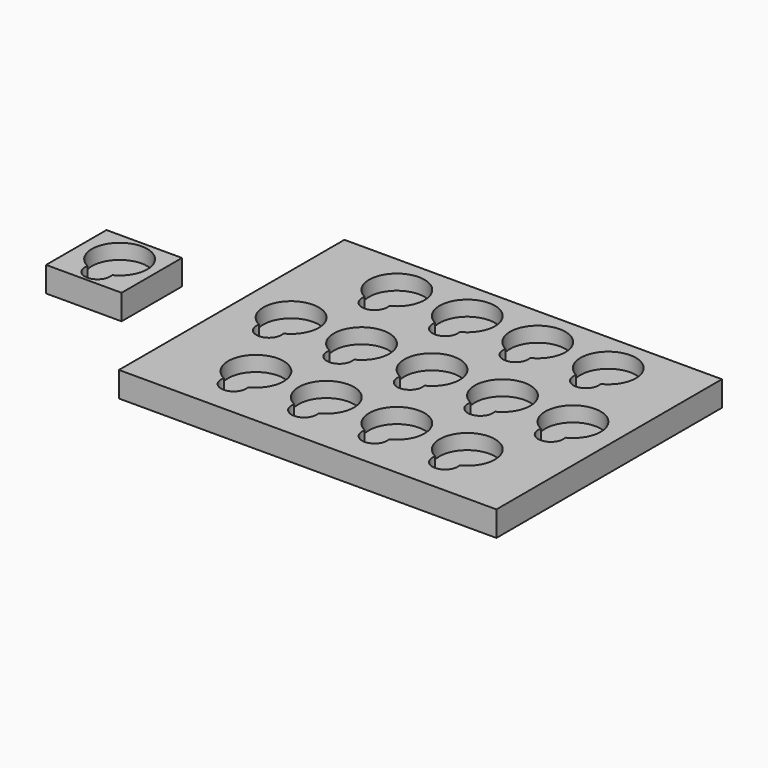
from build123d import *

# Parameters (mm, degrees)
F0_W     = 150
F0_H     = 112
F1_DEPTH = 10
F3_DEPTH = 6
F4_DEPTH = 8
F0_W_2   = 30
F0_H_2   = 30
F5_DEPTH = 10
F7_DEPTH = 6
F8_DEPTH = 8


with BuildPart() as f1:
    # F0 (on Top) → F1 (new body)
    with BuildSketch(Plane.XY):
        Rectangle(F0_W, F0_H)
    extrude(amount=F1_DEPTH)

    # F2 (on face) → F3 (cut)
    with BuildSketch(Plane.XY.offset(10)):
        with BuildLine():
            ThreePointArc((-36.4002658779, -40.0040686741), (-31.9270259679, -35.9472940613), (-30.2694216247, -30.1404323104))
            ThreePointArc((-30.2694216247, -30.1404323104), (-47.0762833755, -20.7980366537), (-46.1385773714, -40.0040686741))
            ThreePointArc((-46.1385773714, -40.0040686741), (-41.2694216247, -36.1404323104), (-36.4002658779, -40.0040686741))
        make_face()
        with BuildLine():
            ThreePointArc((19.5997341221, -40.0040686741), (14.7305783753, -41.1404323104), (9.8614226286, -40.0040686741))
            ThreePointArc((9.8614226286, -40.0040686741), (14.1586425108, -46.10761354), (19.7305783753, -41.1404323104))
            ThreePointArc((19.7305783753, -41.1404323104), (19.6977596048, -40.5684964459), (19.5997341221, -40.0040686741))
        make_face()
        with BuildLine():
            ThreePointArc((47.5997341221, -40.0040686741), (42.7305783753, -36.1404323104), (37.8614226286, -40.0040686741))
            ThreePointArc((37.8614226286, -40.0040686741), (42.7305783753, -41.1404323104), (47.5997341221, -40.0040686741))
        make_face()
        with BuildLine():
            ThreePointArc((-36.4002658779, 29.9959313259), (-31.9270259679, 34.0527059387), (-30.2694216247, 39.8595676896))
            ThreePointArc((-30.2694216247, 39.8595676896), (-47.0762833755, 49.2019633463), (-46.1385773714, 29.9959313259))
            ThreePointArc((-46.1385773714, 29.9959313259), (-41.2694216247, 33.8595676896), (-36.4002658779, 29.9959313259))
        make_face()
        with BuildLine():
            ThreePointArc((-8.4002658779, -40.0040686741), (-13.2694216247, -41.1404323104), (-18.1385773714, -40.0040686741))
            ThreePointArc((-18.1385773714, -40.0040686741), (-13.8413574892, -46.10761354), (-8.2694216247, -41.1404323104))
            ThreePointArc((-8.2694216247, -41.1404323104), (-8.3022403952, -40.5684964459), (-8.4002658779, -40.0040686741))
        make_face()
        with BuildLine():
            ThreePointArc((-22.4002658779, -5.0040686741), (-27.2694216247, -6.1404323104), (-32.1385773714, -5.0040686741))
            ThreePointArc((-32.1385773714, -5.0040686741), (-27.8413574892, -11.10761354), (-22.2694216247, -6.1404323104))
            ThreePointArc((-22.2694216247, -6.1404323104), (-22.3022403952, -5.5684964459), (-22.4002658779, -5.0040686741))
        make_face()
        with BuildLine():
            ThreePointArc((47.5997341221, 29.9959313259), (42.7305783753, 33.8595676896), (37.8614226286, 29.9959313259))
            ThreePointArc((37.8614226286, 29.9959313259), (42.7305783753, 28.8595676896), (47.5997341221, 29.9959313259))
        make_face()
        with BuildLine():
            ThreePointArc((47.5997341221, -40.0040686741), (42.7305783753, -41.1404323104), (37.8614226286, -40.0040686741))
            ThreePointArc((37.8614226286, -40.0040686741), (42.1586425108, -46.10761354), (47.7305783753, -41.1404323104))
            ThreePointArc((47.7305783753, -41.1404323104), (47.6977596048, -40.5684964459), (47.5997341221, -40.0040686741))
        make_face()
        with BuildLine():
            ThreePointArc((61.5997341221, -5.0040686741), (66.0729740321, -0.9472940613), (67.7305783753, 4.8595676896))
            ThreePointArc((67.7305783753, 4.8595676896), (50.9237166245, 14.2019633463), (51.8614226286, -5.0040686741))
            ThreePointArc((51.8614226286, -5.0040686741), (56.7305783753, -1.1404323104), (61.5997341221, -5.0040686741))
        make_face()
        with BuildLine():
            ThreePointArc((-36.4002658779, 29.9959313259), (-41.2694216247, 33.8595676896), (-46.1385773714, 29.9959313259))
            ThreePointArc((-46.1385773714, 29.9959313259), (-41.2694216247, 28.8595676896), (-36.4002658779, 29.9959313259))
        make_face()
        with BuildLine():
            ThreePointArc((61.5997341221, -5.0040686741), (56.7305783753, -1.1404323104), (51.8614226286, -5.0040686741))
            ThreePointArc((51.8614226286, -5.0040686741), (56.7305783753, -6.1404323104), (61.5997341221, -5.0040686741))
        make_face()
        with BuildLine():
            ThreePointArc((19.5997341221, -40.0040686741), (14.7305783753, -36.1404323104), (9.8614226286, -40.0040686741))
            ThreePointArc((9.8614226286, -40.0040686741), (14.7305783753, -41.1404323104), (19.5997341221, -40.0040686741))
        make_face()
        with BuildLine():
            ThreePointArc((-36.4002658779, -40.0040686741), (-41.2694216247, -41.1404323104), (-46.1385773714, -40.0040686741))
            ThreePointArc((-46.1385773714, -40.0040686741), (-41.8413574892, -46.10761354), (-36.2694216247, -41.1404323104))
            ThreePointArc((-36.2694216247, -41.1404323104), (-36.3022403952, -40.5684964459), (-36.4002658779, -40.0040686741))
        make_face()
        with BuildLine():
            ThreePointArc((33.5997341221, -5.0040686741), (38.0729740321, -0.9472940613), (39.7305783753, 4.8595676896))
            ThreePointArc((39.7305783753, 4.8595676896), (22.9237166245, 14.2019633463), (23.8614226286, -5.0040686741))
            ThreePointArc((23.8614226286, -5.0040686741), (28.7305783753, -1.1404323104), (33.5997341221, -5.0040686741))
        make_face()
        with BuildLine():
            ThreePointArc((-8.4002658779, -40.0040686741), (-13.2694216247, -36.1404323104), (-18.1385773714, -40.0040686741))
            ThreePointArc((-18.1385773714, -40.0040686741), (-13.2694216247, -41.1404323104), (-8.4002658779, -40.0040686741))
        make_face()
        with BuildLine():
            ThreePointArc((5.5997341221, -5.0040686741), (0.7305783753, -6.1404323104), (-4.1385773714, -5.0040686741))
            ThreePointArc((-4.1385773714, -5.0040686741), (0.1586425108, -11.10761354), (5.7305783753, -6.1404323104))
            ThreePointArc((5.7305783753, -6.1404323104), (5.6977596048, -5.5684964459), (5.5997341221, -5.0040686741))
        make_face()
        with BuildLine():
            ThreePointArc((-50.4002658779, -5.0040686741), (-55.2694216247, -6.1404323104), (-60.1385773714, -5.0040686741))
            ThreePointArc((-60.1385773714, -5.0040686741), (-55.8413574892, -11.10761354), (-50.2694216247, -6.1404323104))
            ThreePointArc((-50.2694216247, -6.1404323104), (-50.3022403952, -5.5684964459), (-50.4002658779, -5.0040686741))
        make_face()
        with BuildLine():
            ThreePointArc((-36.4002658779, 29.9959313259), (-41.2694216247, 28.8595676896), (-46.1385773714, 29.9959313259))
            ThreePointArc((-46.1385773714, 29.9959313259), (-41.8413574892, 23.89238646), (-36.2694216247, 28.8595676896))
            ThreePointArc((-36.2694216247, 28.8595676896), (-36.3022403952, 29.4315035541), (-36.4002658779, 29.9959313259))
        make_face()
        with BuildLine():
            ThreePointArc((19.5997341221, 29.9959313259), (14.7305783753, 28.8595676896), (9.8614226286, 29.9959313259))
            ThreePointArc((9.8614226286, 29.9959313259), (14.1586425108, 23.89238646), (19.7305783753, 28.8595676896))
            ThreePointArc((19.7305783753, 28.8595676896), (19.6977596048, 29.4315035541), (19.5997341221, 29.9959313259))
        make_face()
        with BuildLine():
            ThreePointArc((19.5997341221, 29.9959313259), (14.7305783753, 33.8595676896), (9.8614226286, 29.9959313259))
            ThreePointArc((9.8614226286, 29.9959313259), (14.7305783753, 28.8595676896), (19.5997341221, 29.9959313259))
        make_face()
        with BuildLine():
            ThreePointArc((5.5997341221, -5.0040686741), (10.0729740321, -0.9472940613), (11.7305783753, 4.8595676896))
            ThreePointArc((11.7305783753, 4.8595676896), (-5.0762833755, 14.2019633463), (-4.1385773714, -5.0040686741))
            ThreePointArc((-4.1385773714, -5.0040686741), (0.7305783753, -1.1404323104), (5.5997341221, -5.0040686741))
        make_face()
        with BuildLine():
            ThreePointArc((-50.4002658779, -5.0040686741), (-55.2694216247, -1.1404323104), (-60.1385773714, -5.0040686741))
            ThreePointArc((-60.1385773714, -5.0040686741), (-55.2694216247, -6.1404323104), (-50.4002658779, -5.0040686741))
        make_face()
        with BuildLine():
            ThreePointArc((33.5997341221, -5.0040686741), (28.7305783753, -6.1404323104), (23.8614226286, -5.0040686741))
            ThreePointArc((23.8614226286, -5.0040686741), (28.1586425108, -11.10761354), (33.7305783753, -6.1404323104))
            ThreePointArc((33.7305783753, -6.1404323104), (33.6977596048, -5.5684964459), (33.5997341221, -5.0040686741))
        make_face()
        with BuildLine():
            ThreePointArc((33.5997341221, -5.0040686741), (28.7305783753, -1.1404323104), (23.8614226286, -5.0040686741))
            ThreePointArc((23.8614226286, -5.0040686741), (28.7305783753, -6.1404323104), (33.5997341221, -5.0040686741))
        make_face()
        with BuildLine():
            ThreePointArc((19.5997341221, 29.9959313259), (24.0729740321, 34.0527059387), (25.7305783753, 39.8595676896))
            ThreePointArc((25.7305783753, 39.8595676896), (8.9237166245, 49.2019633463), (9.8614226286, 29.9959313259))
            ThreePointArc((9.8614226286, 29.9959313259), (14.7305783753, 33.8595676896), (19.5997341221, 29.9959313259))
        make_face()
        with BuildLine():
            ThreePointArc((-8.4002658779, 29.9959313259), (-3.9270259679, 34.0527059387), (-2.2694216247, 39.8595676896))
            ThreePointArc((-2.2694216247, 39.8595676896), (-19.0762833755, 49.2019633463), (-18.1385773714, 29.9959313259))
            ThreePointArc((-18.1385773714, 29.9959313259), (-13.2694216247, 33.8595676896), (-8.4002658779, 29.9959313259))
        make_face()
        with BuildLine():
            ThreePointArc((47.5997341221, 29.9959313259), (42.7305783753, 28.8595676896), (37.8614226286, 29.9959313259))
            ThreePointArc((37.8614226286, 29.9959313259), (42.1586425108, 23.89238646), (47.7305783753, 28.8595676896))
            ThreePointArc((47.7305783753, 28.8595676896), (47.6977596048, 29.4315035541), (47.5997341221, 29.9959313259))
        make_face()
        with BuildLine():
            ThreePointArc((-8.4002658779, 29.9959313259), (-13.2694216247, 28.8595676896), (-18.1385773714, 29.9959313259))
            ThreePointArc((-18.1385773714, 29.9959313259), (-13.8413574892, 23.89238646), (-8.2694216247, 28.8595676896))
            ThreePointArc((-8.2694216247, 28.8595676896), (-8.3022403952, 29.4315035541), (-8.4002658779, 29.9959313259))
        make_face()
        with BuildLine():
            ThreePointArc((-8.4002658779, 29.9959313259), (-13.2694216247, 33.8595676896), (-18.1385773714, 29.9959313259))
            ThreePointArc((-18.1385773714, 29.9959313259), (-13.2694216247, 28.8595676896), (-8.4002658779, 29.9959313259))
        make_face()
        with BuildLine():
            ThreePointArc((47.5997341221, 29.9959313259), (52.0729740321, 34.0527059387), (53.7305783753, 39.8595676896))
            ThreePointArc((53.7305783753, 39.8595676896), (36.9237166245, 49.2019633463), (37.8614226286, 29.9959313259))
            ThreePointArc((37.8614226286, 29.9959313259), (42.7305783753, 33.8595676896), (47.5997341221, 29.9959313259))
        make_face()
        with BuildLine():
            ThreePointArc((19.5997341221, -40.0040686741), (24.0729740321, -35.9472940613), (25.7305783753, -30.1404323104))
            ThreePointArc((25.7305783753, -30.1404323104), (8.9237166245, -20.7980366537), (9.8614226286, -40.0040686741))
            ThreePointArc((9.8614226286, -40.0040686741), (14.7305783753, -36.1404323104), (19.5997341221, -40.0040686741))
        make_face()
        with BuildLine():
            ThreePointArc((47.5997341221, -40.0040686741), (52.0729740321, -35.9472940613), (53.7305783753, -30.1404323104))
            ThreePointArc((53.7305783753, -30.1404323104), (36.9237166245, -20.7980366537), (37.8614226286, -40.0040686741))
            ThreePointArc((37.8614226286, -40.0040686741), (42.7305783753, -36.1404323104), (47.5997341221, -40.0040686741))
        make_face()
        with BuildLine():
            ThreePointArc((-22.4002658779, -5.0040686741), (-17.9270259679, -0.9472940613), (-16.2694216247, 4.8595676896))
            ThreePointArc((-16.2694216247, 4.8595676896), (-33.0762833755, 14.2019633463), (-32.1385773714, -5.0040686741))
            ThreePointArc((-32.1385773714, -5.0040686741), (-27.2694216247, -1.1404323104), (-22.4002658779, -5.0040686741))
        make_face()
        with BuildLine():
            ThreePointArc((-36.4002658779, -40.0040686741), (-41.2694216247, -36.1404323104), (-46.1385773714, -40.0040686741))
            ThreePointArc((-46.1385773714, -40.0040686741), (-41.2694216247, -41.1404323104), (-36.4002658779, -40.0040686741))
        make_face()
        with BuildLine():
            ThreePointArc((-22.4002658779, -5.0040686741), (-27.2694216247, -1.1404323104), (-32.1385773714, -5.0040686741))
            ThreePointArc((-32.1385773714, -5.0040686741), (-27.2694216247, -6.1404323104), (-22.4002658779, -5.0040686741))
        make_face()
        with BuildLine():
            ThreePointArc((-8.4002658779, -40.0040686741), (-3.9270259679, -35.9472940613), (-2.2694216247, -30.1404323104))
            ThreePointArc((-2.2694216247, -30.1404323104), (-19.0762833755, -20.7980366537), (-18.1385773714, -40.0040686741))
            ThreePointArc((-18.1385773714, -40.0040686741), (-13.2694216247, -36.1404323104), (-8.4002658779, -40.0040686741))
        make_face()
        with BuildLine():
            ThreePointArc((-50.4002658779, -5.0040686741), (-45.9270259679, -0.9472940613), (-44.2694216247, 4.8595676896))
            ThreePointArc((-44.2694216247, 4.8595676896), (-61.0762833755, 14.2019633463), (-60.1385773714, -5.0040686741))
            ThreePointArc((-60.1385773714, -5.0040686741), (-55.2694216247, -1.1404323104), (-50.4002658779, -5.0040686741))
        make_face()
        with BuildLine():
            ThreePointArc((61.5997341221, -5.0040686741), (56.7305783753, -6.1404323104), (51.8614226286, -5.0040686741))
            ThreePointArc((51.8614226286, -5.0040686741), (56.1586425108, -11.10761354), (61.7305783753, -6.1404323104))
            ThreePointArc((61.7305783753, -6.1404323104), (61.6977596048, -5.5684964459), (61.5997341221, -5.0040686741))
        make_face()
        with BuildLine():
            ThreePointArc((5.5997341221, -5.0040686741), (0.7305783753, -1.1404323104), (-4.1385773714, -5.0040686741))
            ThreePointArc((-4.1385773714, -5.0040686741), (0.7305783753, -6.1404323104), (5.5997341221, -5.0040686741))
        make_face()
    extrude(amount=-F3_DEPTH, mode=Mode.SUBTRACT)

    # F2 (on face) → F4 (cut)
    with BuildSketch(Plane.XY.offset(10)):
        with BuildLine():
            ThreePointArc((-36.4002658779, 29.9959313259), (-41.2694216247, 33.8595676896), (-46.1385773714, 29.9959313259))
            ThreePointArc((-46.1385773714, 29.9959313259), (-41.2694216247, 28.8595676896), (-36.4002658779, 29.9959313259))
        make_face()
        with BuildLine():
            ThreePointArc((-36.4002658779, 29.9959313259), (-41.2694216247, 28.8595676896), (-46.1385773714, 29.9959313259))
            ThreePointArc((-46.1385773714, 29.9959313259), (-41.8413574892, 23.89238646), (-36.2694216247, 28.8595676896))
            ThreePointArc((-36.2694216247, 28.8595676896), (-36.3022403952, 29.4315035541), (-36.4002658779, 29.9959313259))
        make_face()
        with BuildLine():
            ThreePointArc((-8.4002658779, 29.9959313259), (-13.2694216247, 33.8595676896), (-18.1385773714, 29.9959313259))
            ThreePointArc((-18.1385773714, 29.9959313259), (-13.2694216247, 28.8595676896), (-8.4002658779, 29.9959313259))
        make_face()
        with BuildLine():
            ThreePointArc((-8.4002658779, 29.9959313259), (-13.2694216247, 28.8595676896), (-18.1385773714, 29.9959313259))
            ThreePointArc((-18.1385773714, 29.9959313259), (-13.8413574892, 23.89238646), (-8.2694216247, 28.8595676896))
            ThreePointArc((-8.2694216247, 28.8595676896), (-8.3022403952, 29.4315035541), (-8.4002658779, 29.9959313259))
        make_face()
        with BuildLine():
            ThreePointArc((19.5997341221, 29.9959313259), (14.7305783753, 33.8595676896), (9.8614226286, 29.9959313259))
            ThreePointArc((9.8614226286, 29.9959313259), (14.7305783753, 28.8595676896), (19.5997341221, 29.9959313259))
        make_face()
        with BuildLine():
            ThreePointArc((19.5997341221, 29.9959313259), (14.7305783753, 28.8595676896), (9.8614226286, 29.9959313259))
            ThreePointArc((9.8614226286, 29.9959313259), (14.1586425108, 23.89238646), (19.7305783753, 28.8595676896))
            ThreePointArc((19.7305783753, 28.8595676896), (19.6977596048, 29.4315035541), (19.5997341221, 29.9959313259))
        make_face()
        with BuildLine():
            ThreePointArc((47.5997341221, 29.9959313259), (42.7305783753, 33.8595676896), (37.8614226286, 29.9959313259))
            ThreePointArc((37.8614226286, 29.9959313259), (42.7305783753, 28.8595676896), (47.5997341221, 29.9959313259))
        make_face()
        with BuildLine():
            ThreePointArc((47.5997341221, 29.9959313259), (42.7305783753, 28.8595676896), (37.8614226286, 29.9959313259))
            ThreePointArc((37.8614226286, 29.9959313259), (42.1586425108, 23.89238646), (47.7305783753, 28.8595676896))
            ThreePointArc((47.7305783753, 28.8595676896), (47.6977596048, 29.4315035541), (47.5997341221, 29.9959313259))
        make_face()
        with BuildLine():
            ThreePointArc((-50.4002658779, -5.0040686741), (-55.2694216247, -1.1404323104), (-60.1385773714, -5.0040686741))
            ThreePointArc((-60.1385773714, -5.0040686741), (-55.2694216247, -6.1404323104), (-50.4002658779, -5.0040686741))
        make_face()
        with BuildLine():
            ThreePointArc((-50.4002658779, -5.0040686741), (-55.2694216247, -6.1404323104), (-60.1385773714, -5.0040686741))
            ThreePointArc((-60.1385773714, -5.0040686741), (-55.8413574892, -11.10761354), (-50.2694216247, -6.1404323104))
            ThreePointArc((-50.2694216247, -6.1404323104), (-50.3022403952, -5.5684964459), (-50.4002658779, -5.0040686741))
        make_face()
        with BuildLine():
            ThreePointArc((-22.4002658779, -5.0040686741), (-27.2694216247, -1.1404323104), (-32.1385773714, -5.0040686741))
            ThreePointArc((-32.1385773714, -5.0040686741), (-27.2694216247, -6.1404323104), (-22.4002658779, -5.0040686741))
        make_face()
        with BuildLine():
            ThreePointArc((-22.4002658779, -5.0040686741), (-27.2694216247, -6.1404323104), (-32.1385773714, -5.0040686741))
            ThreePointArc((-32.1385773714, -5.0040686741), (-27.8413574892, -11.10761354), (-22.2694216247, -6.1404323104))
            ThreePointArc((-22.2694216247, -6.1404323104), (-22.3022403952, -5.5684964459), (-22.4002658779, -5.0040686741))
        make_face()
        with BuildLine():
            ThreePointArc((5.5997341221, -5.0040686741), (0.7305783753, -1.1404323104), (-4.1385773714, -5.0040686741))
            ThreePointArc((-4.1385773714, -5.0040686741), (0.7305783753, -6.1404323104), (5.5997341221, -5.0040686741))
        make_face()
        with BuildLine():
            ThreePointArc((5.5997341221, -5.0040686741), (0.7305783753, -6.1404323104), (-4.1385773714, -5.0040686741))
            ThreePointArc((-4.1385773714, -5.0040686741), (0.1586425108, -11.10761354), (5.7305783753, -6.1404323104))
            ThreePointArc((5.7305783753, -6.1404323104), (5.6977596048, -5.5684964459), (5.5997341221, -5.0040686741))
        make_face()
        with BuildLine():
            ThreePointArc((33.5997341221, -5.0040686741), (28.7305783753, -1.1404323104), (23.8614226286, -5.0040686741))
            ThreePointArc((23.8614226286, -5.0040686741), (28.7305783753, -6.1404323104), (33.5997341221, -5.0040686741))
        make_face()
        with BuildLine():
            ThreePointArc((33.5997341221, -5.0040686741), (28.7305783753, -6.1404323104), (23.8614226286, -5.0040686741))
            ThreePointArc((23.8614226286, -5.0040686741), (28.1586425108, -11.10761354), (33.7305783753, -6.1404323104))
            ThreePointArc((33.7305783753, -6.1404323104), (33.6977596048, -5.5684964459), (33.5997341221, -5.0040686741))
        make_face()
        with BuildLine():
            ThreePointArc((61.5997341221, -5.0040686741), (56.7305783753, -1.1404323104), (51.8614226286, -5.0040686741))
            ThreePointArc((51.8614226286, -5.0040686741), (56.7305783753, -6.1404323104), (61.5997341221, -5.0040686741))
        make_face()
        with BuildLine():
            ThreePointArc((61.5997341221, -5.0040686741), (56.7305783753, -6.1404323104), (51.8614226286, -5.0040686741))
            ThreePointArc((51.8614226286, -5.0040686741), (56.1586425108, -11.10761354), (61.7305783753, -6.1404323104))
            ThreePointArc((61.7305783753, -6.1404323104), (61.6977596048, -5.5684964459), (61.5997341221, -5.0040686741))
        make_face()
        with BuildLine():
            ThreePointArc((-36.4002658779, -40.0040686741), (-41.2694216247, -36.1404323104), (-46.1385773714, -40.0040686741))
            ThreePointArc((-46.1385773714, -40.0040686741), (-41.2694216247, -41.1404323104), (-36.4002658779, -40.0040686741))
        make_face()
        with BuildLine():
            ThreePointArc((-36.4002658779, -40.0040686741), (-41.2694216247, -41.1404323104), (-46.1385773714, -40.0040686741))
            ThreePointArc((-46.1385773714, -40.0040686741), (-41.8413574892, -46.10761354), (-36.2694216247, -41.1404323104))
            ThreePointArc((-36.2694216247, -41.1404323104), (-36.3022403952, -40.5684964459), (-36.4002658779, -40.0040686741))
        make_face()
        with BuildLine():
            ThreePointArc((-8.4002658779, -40.0040686741), (-13.2694216247, -36.1404323104), (-18.1385773714, -40.0040686741))
            ThreePointArc((-18.1385773714, -40.0040686741), (-13.2694216247, -41.1404323104), (-8.4002658779, -40.0040686741))
        make_face()
        with BuildLine():
            ThreePointArc((-8.4002658779, -40.0040686741), (-13.2694216247, -41.1404323104), (-18.1385773714, -40.0040686741))
            ThreePointArc((-18.1385773714, -40.0040686741), (-13.8413574892, -46.10761354), (-8.2694216247, -41.1404323104))
            ThreePointArc((-8.2694216247, -41.1404323104), (-8.3022403952, -40.5684964459), (-8.4002658779, -40.0040686741))
        make_face()
        with BuildLine():
            ThreePointArc((19.5997341221, -40.0040686741), (14.7305783753, -36.1404323104), (9.8614226286, -40.0040686741))
            ThreePointArc((9.8614226286, -40.0040686741), (14.7305783753, -41.1404323104), (19.5997341221, -40.0040686741))
        make_face()
        with BuildLine():
            ThreePointArc((19.5997341221, -40.0040686741), (14.7305783753, -41.1404323104), (9.8614226286, -40.0040686741))
            ThreePointArc((9.8614226286, -40.0040686741), (14.1586425108, -46.10761354), (19.7305783753, -41.1404323104))
            ThreePointArc((19.7305783753, -41.1404323104), (19.6977596048, -40.5684964459), (19.5997341221, -40.0040686741))
        make_face()
        with BuildLine():
            ThreePointArc((47.5997341221, -40.0040686741), (42.7305783753, -36.1404323104), (37.8614226286, -40.0040686741))
            ThreePointArc((37.8614226286, -40.0040686741), (42.7305783753, -41.1404323104), (47.5997341221, -40.0040686741))
        make_face()
        with BuildLine():
            ThreePointArc((47.5997341221, -40.0040686741), (42.7305783753, -41.1404323104), (37.8614226286, -40.0040686741))
            ThreePointArc((37.8614226286, -40.0040686741), (42.1586425108, -46.10761354), (47.7305783753, -41.1404323104))
            ThreePointArc((47.7305783753, -41.1404323104), (47.6977596048, -40.5684964459), (47.5997341221, -40.0040686741))
        make_face()
    extrude(amount=-F4_DEPTH, mode=Mode.SUBTRACT)


with BuildPart() as f5:
    # F0 (on Top) → F5 (new body)
    with BuildSketch(Plane.XY):
        with Locations((-121.7445731163, 0)):
            Rectangle(F0_W_2, F0_H_2)
    extrude(amount=F5_DEPTH)

    # F6 (on face) → F7 (cut)
    with BuildSketch(Plane.XY.offset(10)):
        with BuildLine():
            ThreePointArc((-116.4721025407, -7.5858280997), (-111.9988626307, -3.5290534869), (-110.3412582874, 2.2778082639))
            ThreePointArc((-110.3412582874, 2.2778082639), (-127.1481200382, 11.6202039206), (-126.2104140342, -7.5858280997))
            ThreePointArc((-126.2104140342, -7.5858280997), (-121.3412582874, -3.7221917361), (-116.4721025407, -7.5858280997))
        make_face()
    extrude(amount=-F7_DEPTH, mode=Mode.SUBTRACT)

    # F6 (on face) → F8 (cut)
    with BuildSketch(Plane.XY.offset(10)):
        with BuildLine():
            ThreePointArc((-116.4721025407, -7.5858280997), (-121.3412582874, -8.7221917361), (-126.2104140342, -7.5858280997))
            ThreePointArc((-126.2104140342, -7.5858280997), (-121.913194152, -13.6893729656), (-116.3412582874, -8.7221917361))
            ThreePointArc((-116.3412582874, -8.7221917361), (-116.3740770579, -8.1502558715), (-116.4721025407, -7.5858280997))
        make_face()
        with BuildLine():
            ThreePointArc((-116.4721025407, -7.5858280997), (-121.3412582874, -3.7221917361), (-126.2104140342, -7.5858280997))
            ThreePointArc((-126.2104140342, -7.5858280997), (-121.3412582874, -8.7221917361), (-116.4721025407, -7.5858280997))
        make_face()
    extrude(amount=-F8_DEPTH, mode=Mode.SUBTRACT)


solid = Compound([f1.part, f5.part])
